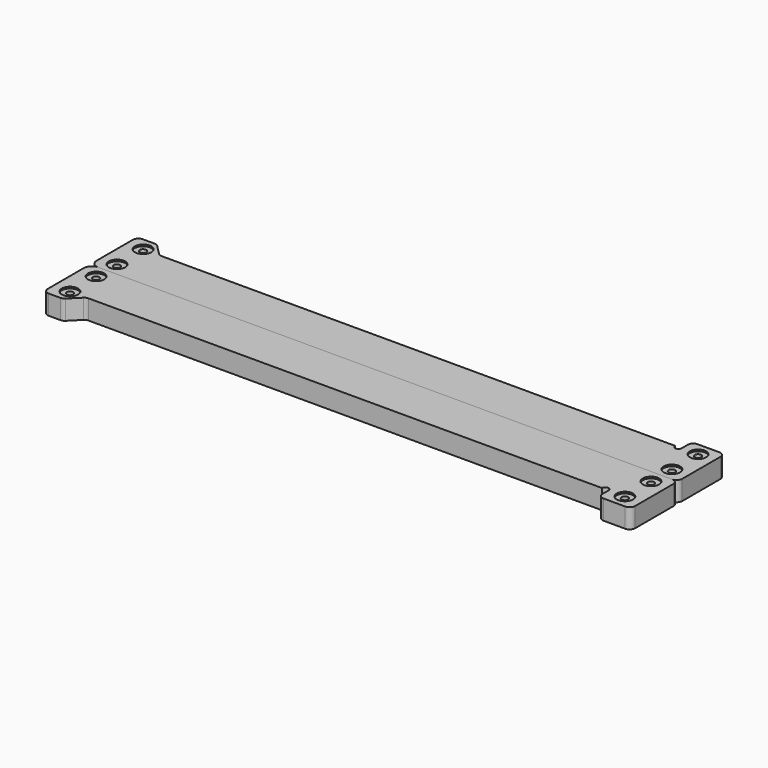
from build123d import *

# Parameters (mm, degrees)
F0_R     = 5
F0_R_2   = 2
F1_DEPTH = 12
F2_R     = 5
F3_DEPTH = 1


with BuildPart() as f1:
    # F0 (on Top) → F1 (new body)
    with BuildSketch(Plane.XY):
        with BuildLine():
            Line((315.85, 28), (1.408326, 28))
            ThreePointArc((1.408326, 28), (0.107202, 28.25881), (-0.995837, 28.995837))
            Line((-0.995837, 28.995837), (-7.004163, 35.004163))
            ThreePointArc((-7.004163, 35.004163), (-8.107202, 35.74119), (-9.408326, 36))
            Line((-9.408326, 36), (-16.6, 36))
            ThreePointArc((-16.6, 36), (-19.004163, 35.004163), (-20, 32.6))
            Line((-20, 32.6), (-20, 4.946767))
            ThreePointArc((-20, 4.946767), (-18.784066, 1.678611), (-15.727663, 0))
            Line((-15.727663, 0), (0, 0))
            Line((0, 0), (329.85, 0))
            Line((329.85, 0), (336.45, 0))
            ThreePointArc((336.45, 0), (338.854163, 0.995837), (339.85, 3.4))
            Line((339.85, 3.4), (339.85, 32.6))
            ThreePointArc((339.85, 32.6), (338.854163, 35.004163), (336.45, 36))
            Line((336.45, 36), (323.25, 36))
            ThreePointArc((323.25, 36), (320.845837, 35.004163), (319.85, 32.6))
            Line((319.85, 32.6), (319.85, 28))
            ThreePointArc((319.85, 28), (317.85, 26), (315.85, 28))
        make_face()
        with Locations((-10, 8)):
            Circle(F0_R, mode=Mode.SUBTRACT)
        with Locations((329.85, 8)):
            Circle(F0_R, mode=Mode.SUBTRACT)
        with Locations((-10, 28)):
            Circle(F0_R, mode=Mode.SUBTRACT)
        with Locations((329.85, 28)):
            Circle(F0_R, mode=Mode.SUBTRACT)
        with Locations((-10, 28)):
            Circle(F0_R)
        with Locations((-10, 28)):
            Circle(F0_R_2, mode=Mode.SUBTRACT)
        with Locations((-10, 8)):
            Circle(F0_R)
        with Locations((-10, 8)):
            Circle(F0_R_2, mode=Mode.SUBTRACT)
        with Locations((329.85, 8)):
            Circle(F0_R)
        with Locations((329.85, 8)):
            Circle(F0_R_2, mode=Mode.SUBTRACT)
        with Locations((329.85, 28)):
            Circle(F0_R)
        with Locations((329.85, 28)):
            Circle(F0_R_2, mode=Mode.SUBTRACT)
    extrude(amount=F1_DEPTH)

    # F2 (on face) → F3 (cut)
    with BuildSketch(Plane.XY.offset(12)):
        with Locations((329.85, 28)):
            Circle(F2_R)
        with Locations((329.85, 8)):
            Circle(F2_R)
        with Locations((-10, 8)):
            Circle(F2_R)
        with Locations((-10, 28)):
            Circle(F2_R)
    extrude(amount=-F3_DEPTH, mode=Mode.SUBTRACT)


with BuildPart() as f5_1:
    # F5: instance of F1
    add(f1.part.mirror(Plane.XZ))


solid = Compound([f1.part, f5_1.part])
